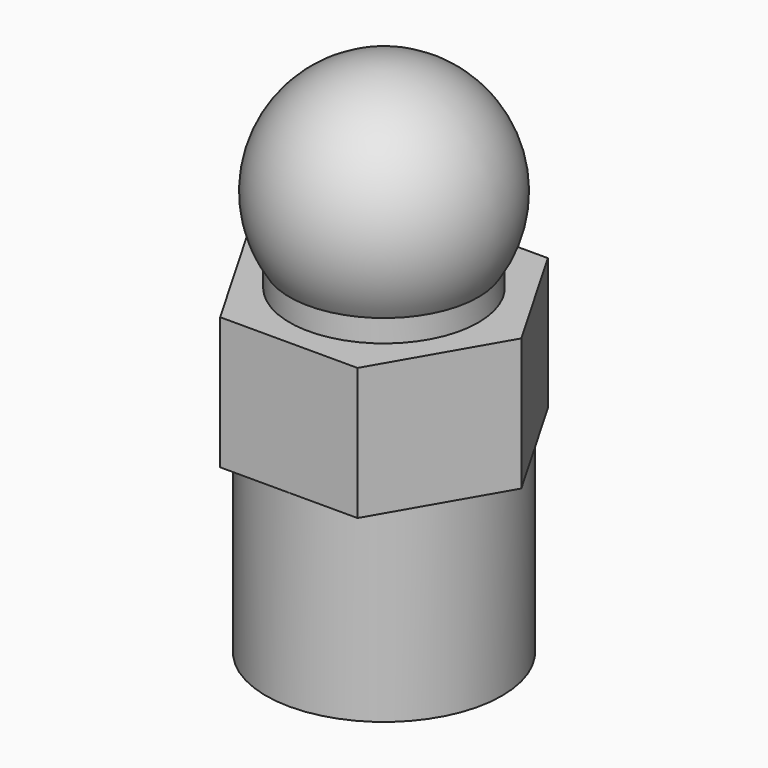
from build123d import *

# Parameters (mm, degrees)
SKETCH_R     = 6.25
PAD_DEPTH    = 10
PAD001_DEPTH = 7
SKETCH002_R  = 5
PAD002_DEPTH = 8.5


with BuildPart() as part:
    # Sketch → Pad (new body)
    with BuildSketch(Plane.XY):
        Circle(SKETCH_R)
    extrude(amount=-PAD_DEPTH)

    # Sketch001 → Pad001 (join)
    with BuildSketch(Plane.XY):
        Polygon((7.274613, 0), (3.637307, 6.3), (-3.637307, 6.3), (-7.274613, 0), (-3.637307, -6.3), (3.637307, -6.3), align=None)
    extrude(amount=PAD001_DEPTH)

    # Sketch002 → Pad002 (join)
    with BuildSketch(Plane.XY):
        Circle(SKETCH002_R)
    extrude(amount=PAD002_DEPTH)

    # Sphere → Sphere (revolve)
    with BuildSketch(Plane(origin=(0, 0, 11.5), x_dir=(1, 0, 0), z_dir=(0, -1, 0))):
        with BuildLine():
            ThreePointArc((0, -6), (6, 0), (0, 6))
            Line((0, 6), (0, -6))
        make_face()
    revolve(axis=Axis((0, 0, 11.5), (0, 0, 1)))


solid = part.part
